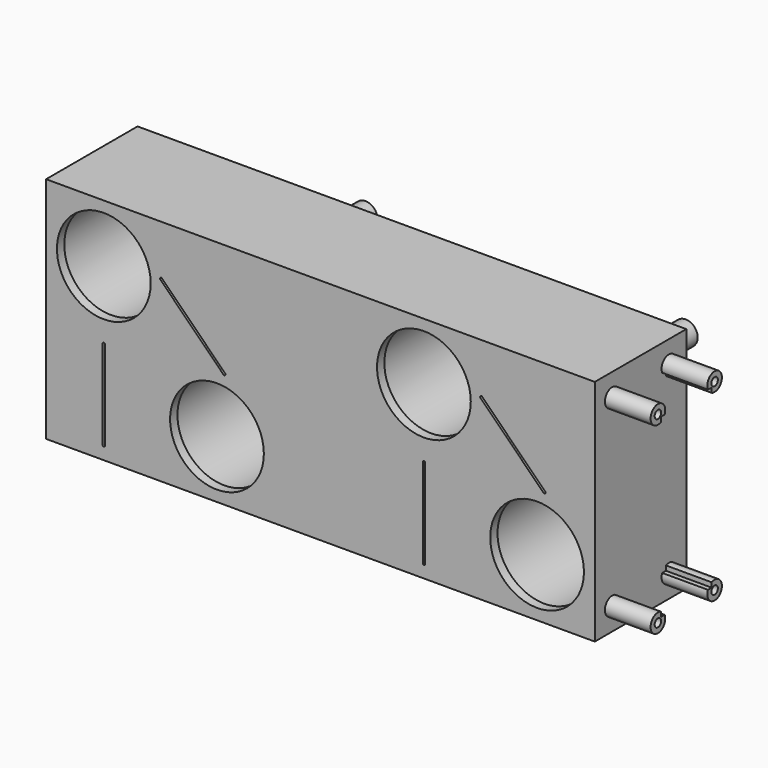
from build123d import *

# Parameters (mm, degrees)
F0_W     = 120
F0_H     = 50
F0_W_2   = 0.5
F0_H_2   = 20
F0_R     = 11.25
F1_DEPTH = 25
F2_R     = 11.25
F2_R_2   = 10.25
F3_DEPTH = 2
F5_DEPTH = 3
F6_R     = 2.625
F6_R_2   = 1.45
F7_DEPTH = 5
F8_R     = 0.889
F9_DEPTH = 10
F10_R    = 0.2


with BuildPart() as f1:
    # F0 (on Front) → F1 (new body)
    with BuildSketch(Plane.XZ):
        Rectangle(F0_W, F0_H)
        with Locations((-47.3743686708, -12.3743686708)):
            Rectangle(F0_W_2, F0_H_2, mode=Mode.SUBTRACT)
        with Locations((-22.6256313292, -12.3743686708)):
            Circle(F0_R, mode=Mode.SUBTRACT)
        with Locations((22.6256313292, -12.3743686708)):
            Rectangle(F0_W_2, F0_H_2, mode=Mode.SUBTRACT)
        with Locations((47.3743686708, -12.3743686708)):
            Circle(F0_R, mode=Mode.SUBTRACT)
        with Locations((-47.3743686708, 12.3743686708)):
            Circle(F0_R, mode=Mode.SUBTRACT)
        Polygon((-21.0346410716, -0.1767766953), (-35.1767766953, 13.9653589284), (-34.8232233047, 14.318912319), (-20.681087681, 0.1767766953), align=None, mode=Mode.SUBTRACT)
        with Locations((22.6256313292, 12.3743686708)):
            Circle(F0_R, mode=Mode.SUBTRACT)
        Polygon((34.8232233047, 13.9653589284), (35.1767766953, 14.318912319), (49.318912319, 0.1767766953), (48.9653589284, -0.1767766953), align=None, mode=Mode.SUBTRACT)
    extrude(amount=F1_DEPTH)

    # F2 (on face) → F3 (join)
    with BuildSketch(Plane.XZ.offset(25)):
        with Locations((-47.3743686708, 12.3743686708)):
            Circle(F2_R)
        with Locations((-47.3743686708, 12.3743686708)):
            Circle(F2_R_2, mode=Mode.SUBTRACT)
        with Locations((-22.6256313292, -12.3743686708)):
            Circle(F2_R)
        with Locations((-22.6256313292, -12.3743686708)):
            Circle(F2_R_2, mode=Mode.SUBTRACT)
        with Locations((22.6256313292, 12.3743686708)):
            Circle(F2_R)
        with Locations((22.6256313292, 12.3743686708)):
            Circle(F2_R_2, mode=Mode.SUBTRACT)
        with Locations((47.3743686708, -12.3743686708)):
            Circle(F2_R)
        with Locations((47.3743686708, -12.3743686708)):
            Circle(F2_R_2, mode=Mode.SUBTRACT)
    extrude(amount=-F3_DEPTH)

    # F4 (on face) → F5 (cut)
    with BuildSketch(Plane(origin=(0, 0, 0), x_dir=(-1, 0, 0), z_dir=(0, 1, 0))):
        Polygon((-20.1256313292, -10.4743686708), (-25.1256313292, -10.4743686708), (-25.1256313292, -15.4743686708), (-24.2506313292, -15.4743686708), (-24.2506313292, -25), (-21.0006313292, -25), (-21.0006313292, -15.4743686708), (-20.1256313292, -15.4743686708), align=None)
        Polygon((-38.9597979746, 6.6468037432), (-42.4953318806, 10.1823376491), (-46.0308657865, 6.6468037432), (-45.412147353, 6.0280853096), (-50.2911841432, 1.1490485194), (-47.9930871043, -1.1490485194), (-43.1140503141, 3.7299882708), (-42.4953318806, 3.1112698372), align=None)
        Polygon((23.9691342135, 6.6468037432), (24.587852647, 6.0280853096), (19.7088158568, 1.1490485194), (22.0069128957, -1.1490485194), (26.8859496859, 3.7299882708), (27.5046681194, 3.1112698372), (31.0402020254, 6.6468037432), (27.5046681194, 10.1823376491), align=None)
        Polygon((49.8743686708, -10.4743686708), (44.8743686708, -10.4743686708), (44.8743686708, -15.4743686708), (45.7493686708, -15.4743686708), (45.7493686708, -25), (48.9993686708, -25), (48.9993686708, -15.4743686708), (49.8743686708, -15.4743686708), align=None)
    extrude(amount=-F5_DEPTH, mode=Mode.SUBTRACT)

    # F6 (on Front) → F7 (join)
    with BuildSketch(Plane.XZ):
        with Locations((55.875, 20.875)):
            Circle(F6_R)
        with Locations((55.875, 20.875)):
            Circle(F6_R_2, mode=Mode.SUBTRACT)
        with Locations((26.8129112932, -8.1870887068)):
            Circle(F6_R)
        with Locations((26.8129112932, -8.1870887068)):
            Circle(F6_R_2, mode=Mode.SUBTRACT)
        with Locations((-43.1870887068, -8.1870887068)):
            Circle(F6_R)
        with Locations((-43.1870887068, -8.1870887068)):
            Circle(F6_R_2, mode=Mode.SUBTRACT)
        with Locations((-14.125, 20.875)):
            Circle(F6_R)
        with Locations((-14.125, 20.875)):
            Circle(F6_R_2, mode=Mode.SUBTRACT)
    extrude(amount=-F7_DEPTH)

    # F8 (on face) → F9 (join)
    with BuildSketch(Plane.YZ.offset(60)):
        with BuildLine():
            Line((-5.553, 19.266), (-5.553, 18.232969722))
            ThreePointArc((-5.553, 18.232969722), (-3.3387864376, 21.4802135624), (-6.586030278, 19.266))
            Line((-6.586030278, 19.266), (-5.553, 19.266))
        make_face()
        with Locations((-4.753, 20.066)):
            Circle(F8_R, mode=Mode.SUBTRACT)
        with BuildLine():
            Line((-19.447, 19.266), (-18.413969722, 19.266))
            ThreePointArc((-18.413969722, 19.266), (-21.6612135624, 21.4802135624), (-19.447, 18.232969722))
            Line((-19.447, 18.232969722), (-19.447, 19.266))
        make_face()
        with Locations((-20.247, 20.066)):
            Circle(F8_R, mode=Mode.SUBTRACT)
        with BuildLine():
            Line((-5.553, -19.266), (-6.586030278, -19.266))
            ThreePointArc((-6.586030278, -19.266), (-3.3387864376, -21.4802135624), (-5.553, -18.232969722))
            Line((-5.553, -18.232969722), (-5.553, -19.266))
        make_face()
        with Locations((-4.753, -20.066)):
            Circle(F8_R, mode=Mode.SUBTRACT)
        with BuildLine():
            Line((-19.447, -19.266), (-19.447, -18.232969722))
            ThreePointArc((-19.447, -18.232969722), (-21.6612135624, -21.4802135624), (-18.413969722, -19.266))
            Line((-18.413969722, -19.266), (-19.447, -19.266))
        make_face()
        with Locations((-20.247, -20.066)):
            Circle(F8_R, mode=Mode.SUBTRACT)
    extrude(amount=F9_DEPTH)

    # F10
    f10_edges = [f1.edges().sort_by_distance(p)[0] for p in [
        (-35.176777, -12.5, 13.965359),
        (-34.823223, -12.5, 14.318912),
        (-20.681088, -14, 0.176777),
        (-21.034641, -14, -0.176777),
        (-47.124369, -14, -22.374369),
        (-47.624369, -12.5, -2.374369),
        (-47.124369, -12.5, -2.374369),
        (-47.624369, -14, -22.374369),
        (22.375631, -14, -22.374369),
        (22.875631, -14, -22.374369),
        (22.875631, -12.5, -2.374369),
        (22.375631, -12.5, -2.374369),
        (34.823223, -12.5, 13.965359),
        (35.176777, -12.5, 14.318912),
        (48.965359, -14, -0.176777),
        (49.318912, -14, 0.176777),
        (50.291184, -1.5, 1.149049),
        (48.000338, -1.5, -1.141797),
        (43.11405, -1.5, 3.729988),
        (45.412147, -1.5, 6.028085),
        (46.030866, -1.5, 6.646804),
        (42.495332, -1.5, 10.182338),
        (40.904342, -1.5, 8.591347),
        (40.550788, -1.5, 8.237794),
        (47.984991, -1.5, -1.140952),
        (38.959798, -1.5, 6.646804),
        (42.495332, -1.5, 3.11127),
        (22.375631, -1.5, -10.474369),
        (22.875631, -1.5, -10.474369),
        (20.125631, -1.5, -10.474369),
        (25.125631, -1.5, -10.474369),
        (24.250631, -1.5, -15.474369),
        (24.250631, -1.5, -25),
        (21.000631, -1.5, -25),
        (20.125631, -1.5, -15.474369),
        (21.000631, -1.5, -15.474369),
        (-29.449212, -1.5, 8.237794),
        (-29.095658, -1.5, 8.591347),
        (-31.040202, -1.5, 6.646804),
        (-26.88595, -1.5, 3.729988),
        (-27.504668, -1.5, 10.182338),
        (-24.587853, -1.5, 6.028085),
        (-19.708816, -1.5, 1.149049),
        (-22.015009, -1.5, -1.140952),
        (-21.999662, -1.5, -1.141797),
        (-23.969134, -1.5, 6.646804),
        (-27.504668, -1.5, 3.11127),
        (-44.874369, -1.5, -10.474369),
        (-47.124369, -1.5, -10.474369),
        (-47.624369, -1.5, -10.474369),
        (-45.749369, -1.5, -15.474369),
        (-49.874369, -1.5, -10.474369),
        (-48.999369, -1.5, -15.474369),
        (-49.874369, -1.5, -15.474369),
        (-48.999369, -1.5, -25),
        (-45.749369, -1.5, -25),
    ]]
    fillet(f10_edges, radius=F10_R)


solid = f1.part
